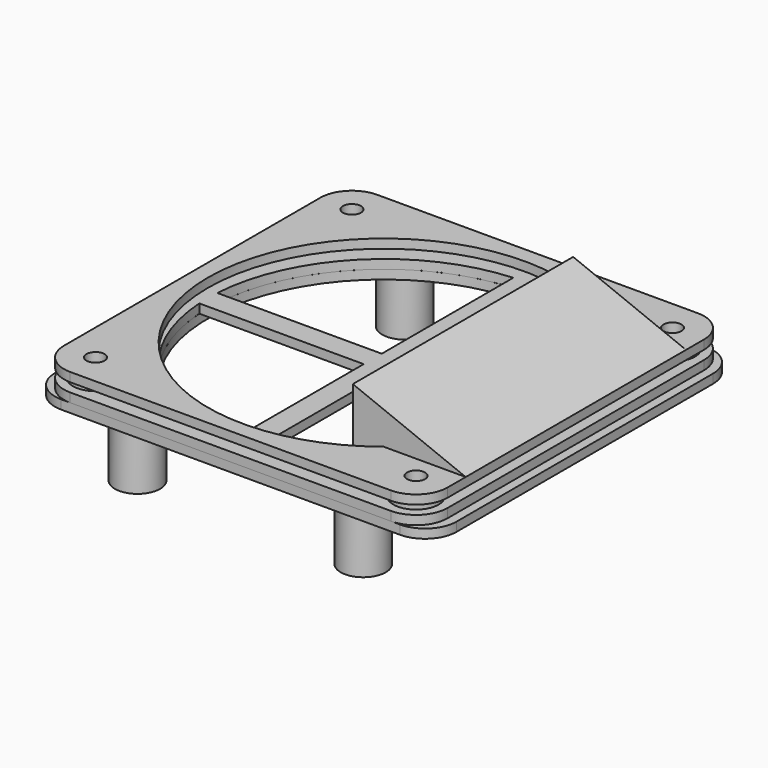
from build123d import *

# Parameters (mm, degrees)
SKETCH_R             = 2
SKETCH_R_2           = 39
PAD_DEPTH            = 2
SKETCH001_R          = 5
PAD001_DEPTH         = 12
BODY_PLACEMENT_ANGLE = 90
SKETCH003_R          = 2
SKETCH003_R_2        = 39
PAD002_DEPTH         = 2
PAD003_DEPTH         = 29.5
PAD006_DEPTH         = 0.5
LINEARPATTERN_COUNT  = 7
LINEARPATTERN_PITCH  = 10
SKETCH004_R          = 2
PAD004_DEPTH         = 2
SKETCH005_R          = 5
SKETCH005_R_2        = 2
PAD005_DEPTH         = 2


with BuildPart() as body:
    # Sketch → Pad (new body)
    with BuildSketch(Plane.XY):
        with BuildLine():
            Line((-42.5, 37.5), (-42.5, -37.499999))
            ThreePointArc((-42.5, -37.499999), (-40.449748, -42.449747), (-35.5, -44.5))
            Line((-35.5, -44.5), (35.5, -44.5))
            ThreePointArc((35.5, -44.5), (40.449747, -42.449747), (42.5, -37.5))
            Line((42.5, -37.5), (42.5, 37.5))
            ThreePointArc((42.5, 37.5), (40.449747, 42.449747), (35.5, 44.5))
            Line((35.5, 44.5), (-35.5, 44.5))
            ThreePointArc((-35.5, 44.5), (-40.449747, 42.449747), (-42.5, 37.5))
        make_face()
        with Locations((-35.5, 35.5)):
            Circle(SKETCH_R, mode=Mode.SUBTRACT)
        with Locations((35.5, 35.5)):
            Circle(SKETCH_R, mode=Mode.SUBTRACT)
        with Locations((35.5, -35.5)):
            Circle(SKETCH_R, mode=Mode.SUBTRACT)
        with Locations((-35.5, -35.5)):
            Circle(SKETCH_R, mode=Mode.SUBTRACT)
        Circle(SKETCH_R_2, mode=Mode.SUBTRACT)
    extrude(amount=PAD_DEPTH)

    # Sketch001 → Pad001 (join)
    with BuildSketch(Plane.XY):
        with Locations((-37, 25)):
            Circle(SKETCH001_R)
        with Locations((37, 25)):
            Circle(SKETCH001_R)
        with Locations((37, -25)):
            Circle(SKETCH001_R)
        with Locations((-37, -25)):
            Circle(SKETCH001_R)
    extrude(amount=-PAD001_DEPTH)


with BuildPart() as body_1:
    # Body placement: moved
    add(body.part.moved(Location((0, 0, -4))).rotate(Axis((0, 0, -4), (0, 0, 1)), BODY_PLACEMENT_ANGLE))


with BuildPart() as vent:
    # Sketch003 → Pad002 (new body)
    with BuildSketch(Plane.XY):
        with BuildLine():
            Line((-42.5, 35.5), (-42.5, -35.499999))
            ThreePointArc((-42.5, -35.499999), (-40.449748, -40.449747), (-35.5, -42.5))
            Line((-35.5, -42.5), (35.5, -42.5))
            ThreePointArc((35.5, -42.5), (40.449747, -40.449747), (42.5, -35.5))
            Line((42.5, -35.5), (42.5, 35.5))
            ThreePointArc((42.5, 35.5), (40.449747, 40.449747), (35.5, 42.5))
            Line((35.5, 42.5), (-35.5, 42.5))
            ThreePointArc((-35.5, 42.5), (-40.449747, 40.449747), (-42.5, 35.5))
        make_face()
        with Locations((-35.5, 35.5)):
            Circle(SKETCH003_R, mode=Mode.SUBTRACT)
        with Locations((35.5, 35.5)):
            Circle(SKETCH003_R, mode=Mode.SUBTRACT)
        with Locations((35.5, -35.5)):
            Circle(SKETCH003_R, mode=Mode.SUBTRACT)
        with Locations((-35.5, -35.5)):
            Circle(SKETCH003_R, mode=Mode.SUBTRACT)
        Circle(SKETCH003_R_2, mode=Mode.SUBTRACT)
    extrude(amount=PAD002_DEPTH)

    # Sketch002 → Pad003 (join, symmetric)
    with BuildSketch(Plane.XZ):
        Polygon((17.5, 12), (42.5, 2), (42.5, 0.8), (17.5, 10.8), align=None)
    extrude(amount=PAD003_DEPTH, both=True)

    # Sketch006 → Pad006 (join, symmetric)
    with BuildSketch(Plane.XZ.offset(-30)):
        Polygon((17.5, 12), (42.5, 2), (42.5, 0), (17.5, 0), align=None)
    pad006 = extrude(amount=PAD006_DEPTH, both=True)

    # LinearPattern: Pad006 ×7
    with Locations(*[(0, -i * LINEARPATTERN_PITCH, 0) for i in range(1, LINEARPATTERN_COUNT)]):
        add(pad006)


with BuildPart() as vent_1:
    # Body001 placement: moved
    add(vent.part.moved(Location((0, 0, 2))))


with BuildPart() as inter:
    # Sketch004 → Pad004 (new body)
    with BuildSketch(Plane.XY):
        with BuildLine():
            Line((-42.5, 35.5), (-42.5, -35.499975))
            ThreePointArc((-42.5, -35.499975), (-40.449756, -40.449739), (-35.5, -42.5))
            Line((-35.5, -42.5), (35.5, -42.5))
            ThreePointArc((35.5, -42.5), (40.449747, -40.449747), (42.5, -35.5))
            Line((42.5, -35.5), (42.5, 35.5))
            ThreePointArc((42.5, 35.5), (40.449747, 40.449747), (35.5, 42.5))
            Line((35.5, 42.5), (-35.5, 42.5))
            ThreePointArc((-35.5, 42.5), (-40.449747, 40.449747), (-42.5, 35.5))
        make_face()
        with Locations((-35.5, 35.5)):
            Circle(SKETCH004_R, mode=Mode.SUBTRACT)
        with Locations((35.5, 35.5)):
            Circle(SKETCH004_R, mode=Mode.SUBTRACT)
        with Locations((35.5, -35.5)):
            Circle(SKETCH004_R, mode=Mode.SUBTRACT)
        with Locations((-35.5, -35.5)):
            Circle(SKETCH004_R, mode=Mode.SUBTRACT)
        with BuildLine():
            Line((-2.5, 38.919789), (-2.5, 2.5))
            Line((-2.5, 2.5), (-38.919789, 2.5))
            ThreePointArc((-2.5, 38.919789), (-27.577164, 27.577164), (-38.919789, 2.5))
        make_face(mode=Mode.SUBTRACT)
        with BuildLine():
            Line((2.5, 2.5), (2.5, 38.919789))
            ThreePointArc((38.919789, 2.5), (27.577164, 27.577164), (2.5, 38.919789))
            Line((38.919789, 2.5), (2.5, 2.5))
        make_face(mode=Mode.SUBTRACT)
        with BuildLine():
            Line((2.5, -2.5), (38.919789, -2.5))
            ThreePointArc((2.5, -38.919789), (27.577164, -27.577164), (38.919789, -2.5))
            Line((2.5, -38.919789), (2.5, -2.5))
        make_face(mode=Mode.SUBTRACT)
        with BuildLine():
            Line((-2.5, -2.5), (-2.5, -38.919789))
            ThreePointArc((-38.919789, -2.5), (-27.577164, -27.577164), (-2.5, -38.919789))
            Line((-38.919789, -2.5), (-2.5, -2.5))
        make_face(mode=Mode.SUBTRACT)
    extrude(amount=-PAD004_DEPTH)

    # Sketch005 → Pad005 (join)
    with BuildSketch(Plane.XY):
        with Locations((-35.5, 35.5)):
            Circle(SKETCH005_R)
        with Locations((-35.5, 35.5)):
            Circle(SKETCH005_R_2, mode=Mode.SUBTRACT)
        with Locations((35.5, 35.5)):
            Circle(SKETCH005_R)
        with Locations((35.5, 35.5)):
            Circle(SKETCH005_R_2, mode=Mode.SUBTRACT)
        with Locations((35.5, -35.5)):
            Circle(SKETCH005_R)
        with Locations((35.5, -35.5)):
            Circle(SKETCH005_R_2, mode=Mode.SUBTRACT)
        with Locations((-35.5, -35.5)):
            Circle(SKETCH005_R)
        with Locations((-35.5, -35.5)):
            Circle(SKETCH005_R_2, mode=Mode.SUBTRACT)
    extrude(amount=PAD005_DEPTH)


solid = Compound([body_1.part, vent_1.part, inter.part])
